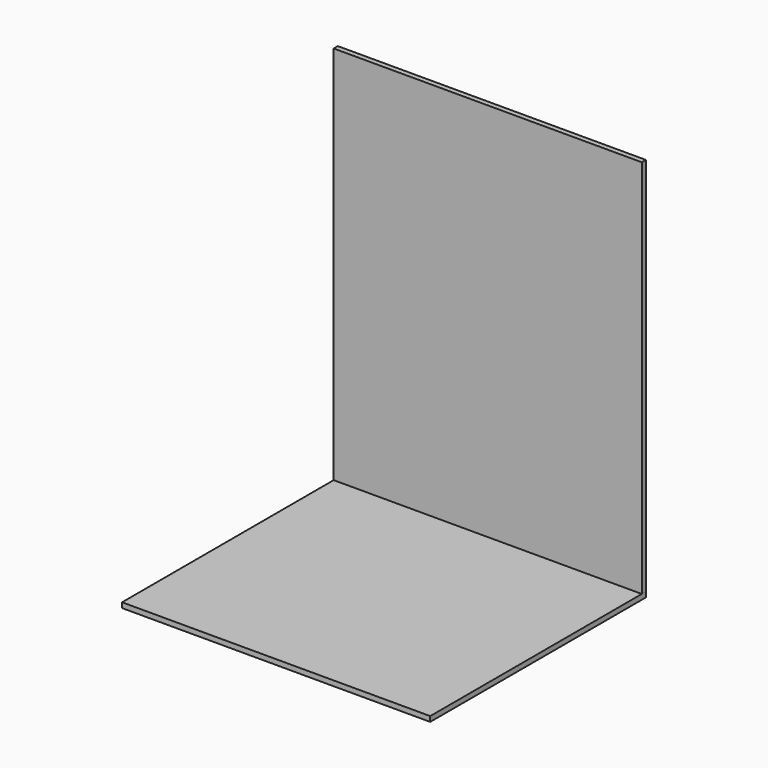
from build123d import *

# Parameters (mm, degrees)
F0_W     = 15
F0_H     = 172
F0_W_2   = 7
F0_H_2   = 15
F0_W_3   = 188
F1_DEPTH = 4
F2_START = 4
F2_DEPTH = 296


with BuildPart() as f1:
    # F0 (on Top) → F1 (new body)
    with BuildSketch(Plane.XY):
        Polygon((0, 206), (0, 4), (4, 4), (4, 19), (4, 191), (4, 206), align=None)
        Polygon((0, 210), (0, 206), (4, 206), (19, 206), (26, 206), (214, 206), (221, 206), (236, 206), (240, 206), (240, 210), align=None)
        Polygon((0, 4), (0, 0), (240, 0), (240, 4), (236, 4), (221, 4), (214, 4), (26, 4), (19, 4), (4, 4), align=None)
        with Locations((11.5, 105)):
            Rectangle(F0_W, F0_H)
        with Locations((228.5, 105)):
            Rectangle(F0_W, F0_H)
        with Locations((217.5, 11.5)):
            Rectangle(F0_W_2, F0_H_2)
        with Locations((120, 11.5)):
            Rectangle(F0_W_3, F0_H_2)
        Polygon((19, 191), (19, 19), (26, 19), (214, 19), (221, 19), (221, 191), (214, 191), (26, 191), align=None)
        Polygon((236, 4), (240, 4), (240, 206), (236, 206), (236, 191), (236, 19), align=None)
        with Locations((11.5, 11.5)):
            Rectangle(F0_W, F0_H_2)
        with Locations((22.5, 11.5)):
            Rectangle(F0_W_2, F0_H_2)
        with Locations((22.5, 198.5)):
            Rectangle(F0_W_2, F0_H_2)
        with Locations((11.5, 198.5)):
            Rectangle(F0_W, F0_H_2)
        with Locations((120, 198.5)):
            Rectangle(F0_W_3, F0_H_2)
        with Locations((228.5, 198.5)):
            Rectangle(F0_W, F0_H_2)
        with Locations((217.5, 198.5)):
            Rectangle(F0_W_2, F0_H_2)
        with Locations((228.5, 11.5)):
            Rectangle(F0_W, F0_H_2)
    extrude(amount=F1_DEPTH)


with BuildPart() as f2:
    # F0 (on Top) → F2 (new body)
    with BuildSketch(Plane.XY.offset(F2_START)):
        Polygon((0, 210), (0, 206), (4, 206), (19, 206), (26, 206), (214, 206), (221, 206), (236, 206), (240, 206), (240, 210), align=None)
    extrude(amount=F2_DEPTH)


solid = Compound([f1.part, f2.part])
